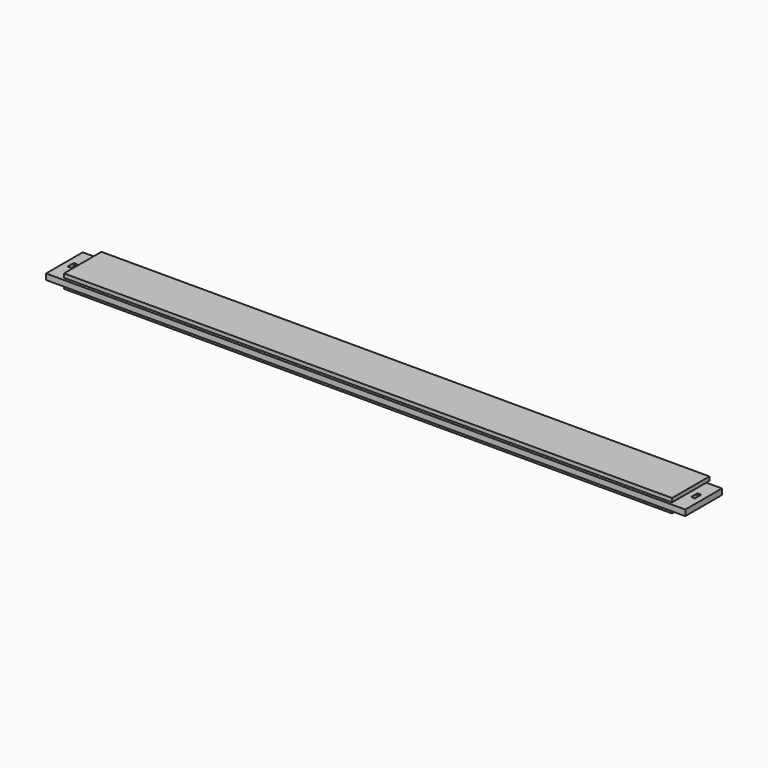
from build123d import *

# Parameters (mm, degrees)
F0_W     = 2082.8
F0_H     = 161.925
F1_DEPTH = 44.45
F2_W     = 1981.2
F2_H     = 9.525
F3_DEPTH = 12.7
F4_W     = 1981.2
F4_H     = 9.525
F5_DEPTH = 12.7
F6_W     = 2082.8
F6_H     = 19.05
F7_DEPTH = 12.7
F8_W     = 12.7
F8_H     = 25.4
F9_DEPTH = 31.751


with BuildPart() as f1:
    # F0 (on Top) → F1 (new body)
    with BuildSketch(Plane.XY):
        with Locations((80.949743, -511.85186)):
            Rectangle(F0_W, F0_H)
    extrude(amount=F1_DEPTH)

    # F2 (on face) → F3 (cut)
    with BuildSketch(Plane(origin=(0, 0, 0), x_dir=(1, 0, 0), z_dir=(0, 0, -1))):
        Polygon((-960.450257, 592.81436), (-960.450257, 430.88936), (-909.650257, 430.88936), (-909.650257, 583.28936), (-909.650257, 592.81436), align=None)
        with Locations((80.949743, 588.05186)):
            Rectangle(F2_W, F2_H)
        Polygon((1071.549743, 592.81436), (1071.549743, 583.28936), (1071.549743, 430.88936), (1122.349743, 430.88936), (1122.349743, 592.81436), align=None)
    extrude(amount=-F3_DEPTH, mode=Mode.SUBTRACT)

    # F4 (on face) → F5 (cut)
    with BuildSketch(Plane.XY.offset(44.45)):
        Polygon((1122.349743, -430.88936), (1071.549743, -430.88936), (1071.549743, -583.28936), (1071.549743, -592.81436), (1122.349743, -592.81436), align=None)
        with Locations((80.949743, -588.05186)):
            Rectangle(F4_W, F4_H)
        Polygon((-909.650257, -592.81436), (-909.650257, -583.28936), (-909.650257, -430.88936), (-960.450257, -430.88936), (-960.450257, -592.81436), align=None)
    extrude(amount=-F5_DEPTH, mode=Mode.SUBTRACT)

    # F6 (on face) → F7 (cut)
    with BuildSketch(Plane(origin=(0, -430.88936, 0), x_dir=(-1, 0, 0), z_dir=(0, 1, 0))):
        with Locations((-80.949743, 22.225)):
            Rectangle(F6_W, F6_H)
    extrude(amount=-F7_DEPTH, mode=Mode.SUBTRACT)

    # F8 (on face) → F9 (cut, through all)
    with BuildSketch(Plane(origin=(0, 0, 12.7), x_dir=(1, 0, 0), z_dir=(0, 0, -1))):
        with Locations((-935.050257, 516.61436)):
            Rectangle(F8_W, F8_H)
        with Locations((1096.949743, 516.61436)):
            Rectangle(F8_W, F8_H)
    extrude(amount=-F9_DEPTH, mode=Mode.SUBTRACT)


solid = f1.part
